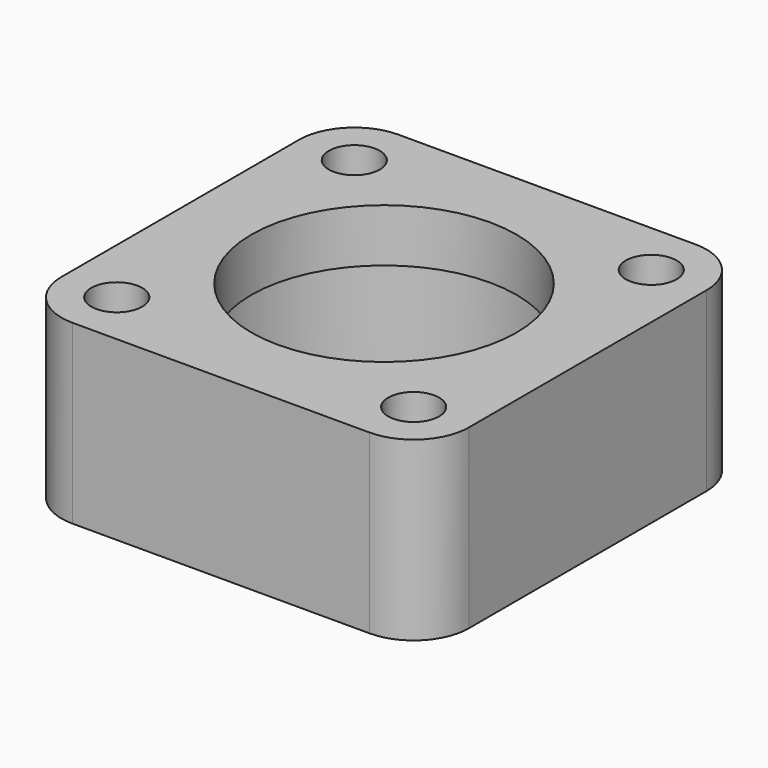
from build123d import *

# Parameters (mm, degrees)
F0_W     = 29.265608
F0_H     = 29.265608
F0_R     = 1.8288
F0_R_2   = 9.525
F1_DEPTH = 12.7
F2_R     = 3.96875
F3_R     = 11.1125
F4_DEPTH = 8.89


with BuildPart() as f1:
    # F0 (on Top) → F1 (new body)
    with BuildSketch(Plane.XY):
        Rectangle(F0_W, F0_H)
        with Locations((-10.664054, -10.664054)):
            Circle(F0_R, mode=Mode.SUBTRACT)
        with Locations((10.664054, -10.664054)):
            Circle(F0_R, mode=Mode.SUBTRACT)
        with Locations((-10.664054, 10.664054)):
            Circle(F0_R, mode=Mode.SUBTRACT)
        Circle(F0_R_2, mode=Mode.SUBTRACT)
        with Locations((10.664054, 10.664054)):
            Circle(F0_R, mode=Mode.SUBTRACT)
    extrude(amount=F1_DEPTH)

    # F2
    f2_edges = [f1.edges().sort_by_distance(p)[0] for p in [
        (-14.632804, 14.632804, 6.35),
        (-14.632804, -14.632804, 6.35),
        (14.632804, -14.632804, 6.35),
        (14.632804, 14.632804, 6.35),
    ]]
    fillet(f2_edges, radius=F2_R)

    # F3 (on face) → F4 (cut)
    with BuildSketch(Plane(origin=(0, 0, 0), x_dir=(1, 0, 0), z_dir=(0, 0, -1))):
        Circle(F3_R)
    extrude(amount=-F4_DEPTH, mode=Mode.SUBTRACT)


solid = f1.part
